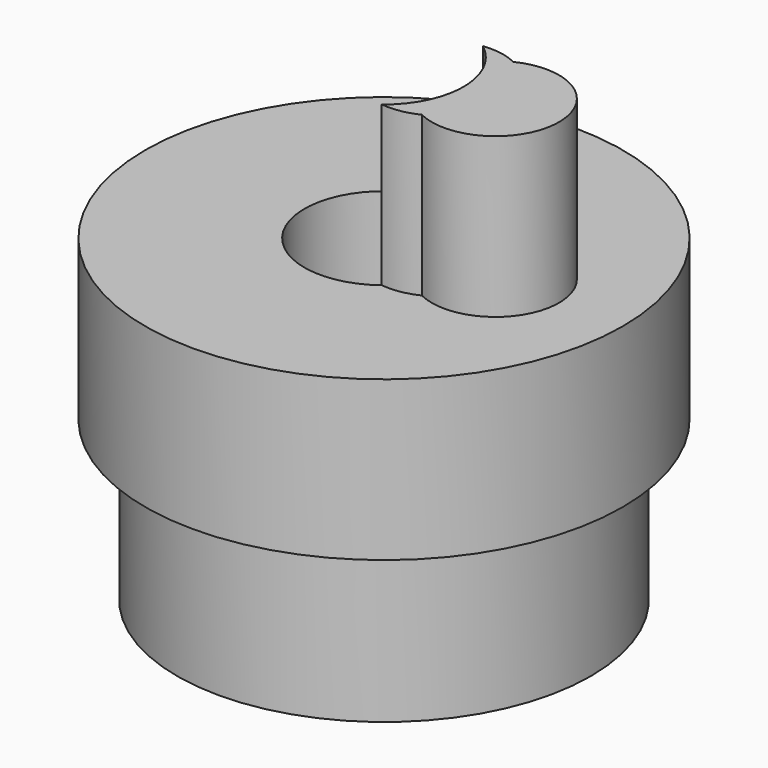
from build123d import *

# Parameters (mm, degrees)
SHAFTSKETCH_R           = 6.5
BEARINGHOLEPAD_DEPTH    = 5
SHAFT1SKETCH_R          = 7.5
OBJ1 = 5
PIN1SKETCH_R            = 2
PIN1PAD_DEPTH           = 10
PIN2SKETCH_R            = 2
PIN2PAD_DEPTH           = 10
OBJ2    = 15


with BuildPart() as part:
    # ShaftSketch → bearingholePad (new body)
    with BuildSketch(Plane.XY):
        Circle(SHAFTSKETCH_R)
    extrude(amount=BEARINGHOLEPAD_DEPTH)

    with BuildSketch(Plane.XY.offset(5)):
        Circle(SHAFT1SKETCH_R)
    extrude(amount=OBJ1)

    # Pin1Sketch → Pin1Pad (join)
    with BuildSketch(Plane.XY.offset(5)):
        with Locations((1.75, 0)):
            Circle(PIN1SKETCH_R)
    extrude(amount=PIN1PAD_DEPTH)

    # Pin2Sketch → Pin2Pad (join)
    with BuildSketch(Plane.XY.offset(5)):
        with Locations((3.5, 0)):
            Circle(PIN2SKETCH_R)
    extrude(amount=PIN2PAD_DEPTH)

    with BuildSketch(Plane.XY):
        with BuildLine():
            ThreePointArc((-0.979796, 2.3), (0, -2.5), (0.979796, 2.3))
            Line((-0.979796, 2.3), (0.979796, 2.3))
        make_face()
    extrude(amount=OBJ2, mode=Mode.SUBTRACT)


solid = part.part
